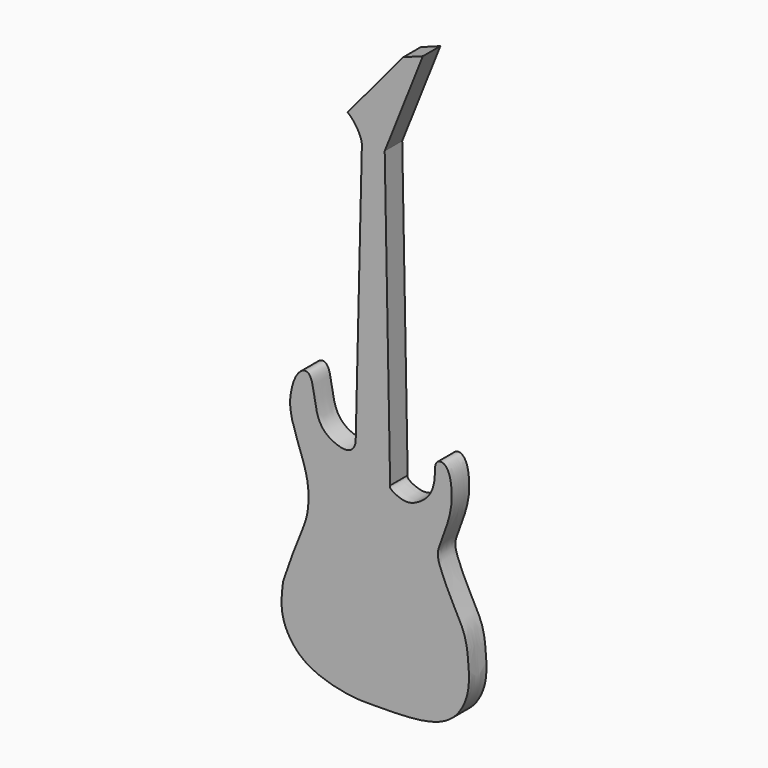
from build123d import *

# Parameters (mm, degrees)
PAD_DEPTH = 10


with BuildPart() as part:
    # Sketch → Pad (new body)
    with BuildSketch(Plane.XZ):
        with BuildLine():
            add(Edge.make_bspline(
                [(0, -133.899), (-9.100484, -134.359207), (-24.996725, -131.246658), (-36.668785, -124.132263), (-44.450165, -110.236946), (-41.8934, -97.2309), (-41.8934, -97.2309)],
                knots=[0, 0, 0, 0, 0.25, 0.5, 0.75, 1, 1, 1, 1], degree=3))
            add(Edge.make_bspline(
                [(-41.8934, -97.2309), (-38.2181, -85.9736), (-32.8823, -73.6346), (-30.3255, -65.9643), (-30.2112, -54.6518), (-33.1014, -45.0919), (-37.1033, -34.6426), (-39.77845, -24.349279), (-36.425293, -11.681814), (-31.283794, -8.552206), (-28.228701, -12.352447), (-26.823006, -28.612843), (-18.954855, -35.074772), (-10.115738, -36.514477), (-8.876923, -31.056993)],
                knots=[0, 0, 0, 0, 0.083333, 0.166667, 0.25, 0.333333, 0.416667, 0.5, 0.583333, 0.666667, 0.75, 0.833333, 0.916667, 1, 1, 1, 1], degree=3))
            Line((-8.876923, -31.056993), (-6.0269, 89.9126))
            add(Edge.make_bspline(
                [(-6.0269, 89.9126), (-6.47154, 93.8032), (-9.91759, 98.5832), (-12.5855, 100.473015)],
                knots=[0, 0, 0, 0, 1, 1, 1, 1], degree=3))
            Line((-12.5855, 100.473015), (12.839501, 130.87207))
            Line((12.839501, 130.87207), (21.794596, 134.188766))
            Line((21.794596, 134.188766), (4.381912, 90.408318))
            Line((4.381912, 90.408318), (6.86221, -43.1733))
            add(Edge.make_bspline(
                [(6.86221, -43.1733), (6.018916, -44.371445), (13.152852, -48.208977), (18.5666, -46.4812), (23.192751, -43.447956), (26.339512, -39.002533), (27.4338, -32.9195), (27.138685, -28.263592), (28.687092, -25.866058), (32.144768, -26.154661), (34.454716, -30.62553), (35.1834, -37.8375), (34.573071, -46.32267), (29.0732, -60.7134), (27.709541, -64.957512), (35.352818, -81.466736), (41.595779, -91.816154), (42.7135, -103.887), (43.2351, -114.990166), (37.646515, -126.837967), (26.692886, -132.873642), (12.7587, -133.917), (0, -133.899)],
                knots=[0, 0, 0, 0, 0.05, 0.1, 0.15, 0.2, 0.25, 0.3, 0.35, 0.4, 0.45, 0.5, 0.55, 0.6, 0.65, 0.7, 0.75, 0.8, 0.85, 0.9, 0.95, 1, 1, 1, 1], degree=3))
        make_face()
    extrude(amount=PAD_DEPTH)


solid = part.part
